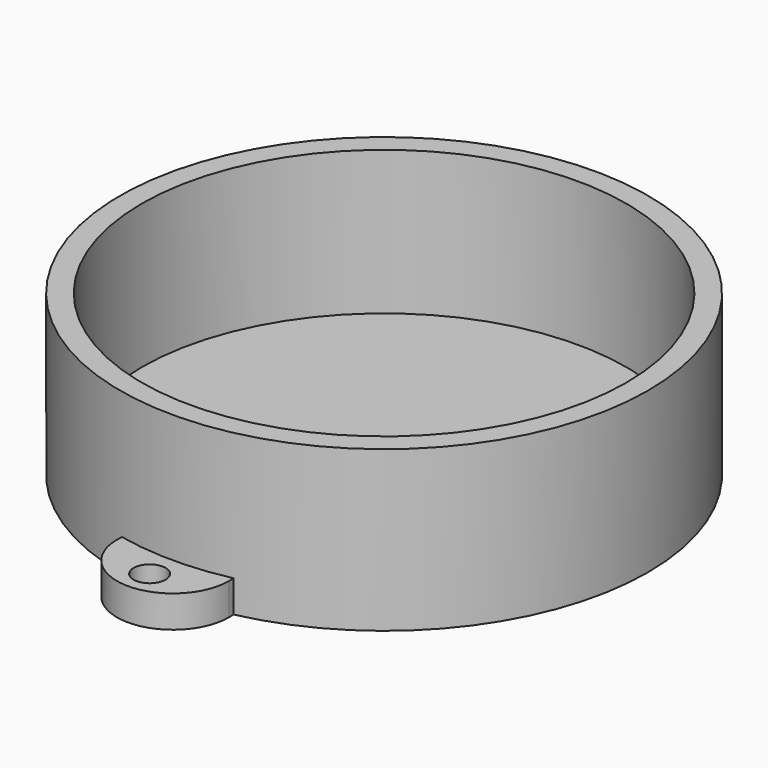
from build123d import *

# Parameters (mm, degrees)
F0_R     = 20.955
F1_DEPTH = 12.7
F2_R     = 19.2405
F3_DEPTH = 11.43
F4_R     = 1.27
F5_DEPTH = 2.54


with BuildPart() as f1:
    # F0 (on Top) → F1 (new body)
    with BuildSketch(Plane.XY):
        Circle(F0_R)
    extrude(amount=F1_DEPTH)

    # F2 (on face) → F3 (cut)
    with BuildSketch(Plane.XY.offset(12.7)):
        Circle(F2_R)
    extrude(amount=-F3_DEPTH, mode=Mode.SUBTRACT)

    # F4 (on face) → F5 (join)
    with BuildSketch(Plane(origin=(0, 0, 0), x_dir=(1, 0, 0), z_dir=(0, 0, -1))):
        with BuildLine():
            ThreePointArc((4.4199287209, 20.4835606061), (4.4387277549, 20.718947214), (4.445, 20.955))
            ThreePointArc((4.445, 20.955), (-0.236052786, 25.3937277549), (-4.4199287209, 20.4835606061))
            ThreePointArc((-4.4199287209, 20.4835606061), (0, 20.955), (4.4199287209, 20.4835606061))
        make_face()
        with Locations((0, 23.2695452869)):
            Circle(F4_R, mode=Mode.SUBTRACT)
    extrude(amount=-F5_DEPTH)


solid = f1.part
